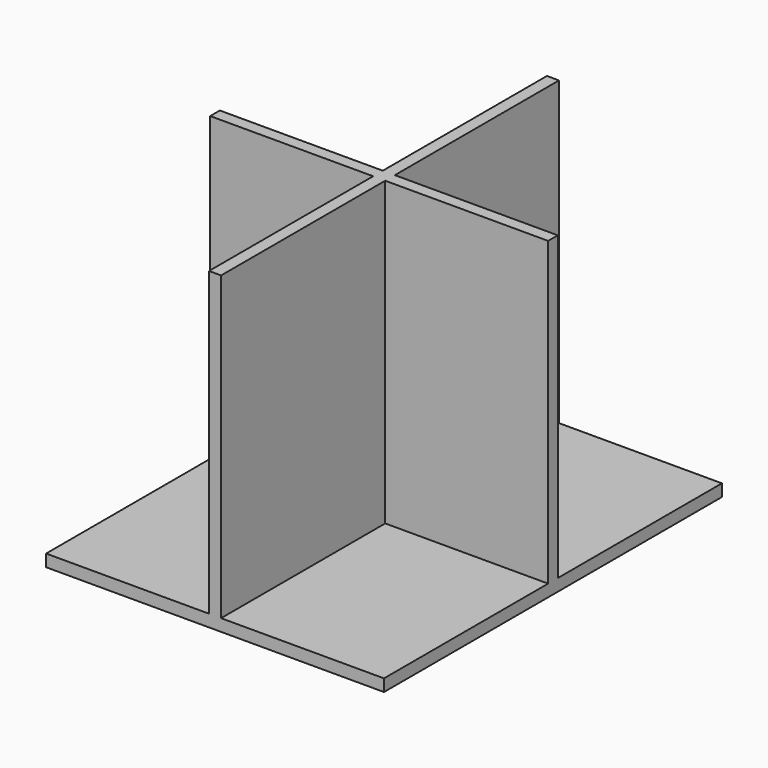
from build123d import *

# Parameters (mm, degrees)
F2_DEPTH = 635
F0_W     = 711.2
F0_H     = 889
F3_DEPTH = 25.4


with BuildPart() as f2:
    # F1 (on face) → F2 (new body)
    with BuildSketch(Plane.XY):
        Polygon((12.7, 444.5), (-12.7, 444.5), (-12.7, 12.7), (-355.6, 12.7), (-355.6, -12.7), (-12.7, -12.7), (-12.7, -444.5), (12.7, -444.5), (12.7, -12.7), (355.6, -12.7), (355.6, 12.7), (12.7, 12.7), align=None)
    extrude(amount=F2_DEPTH)

    # F0 (on Top) → F3 (join)
    with BuildSketch(Plane.XY):
        Rectangle(F0_W, F0_H)
    extrude(amount=-F3_DEPTH)


solid = f2.part
